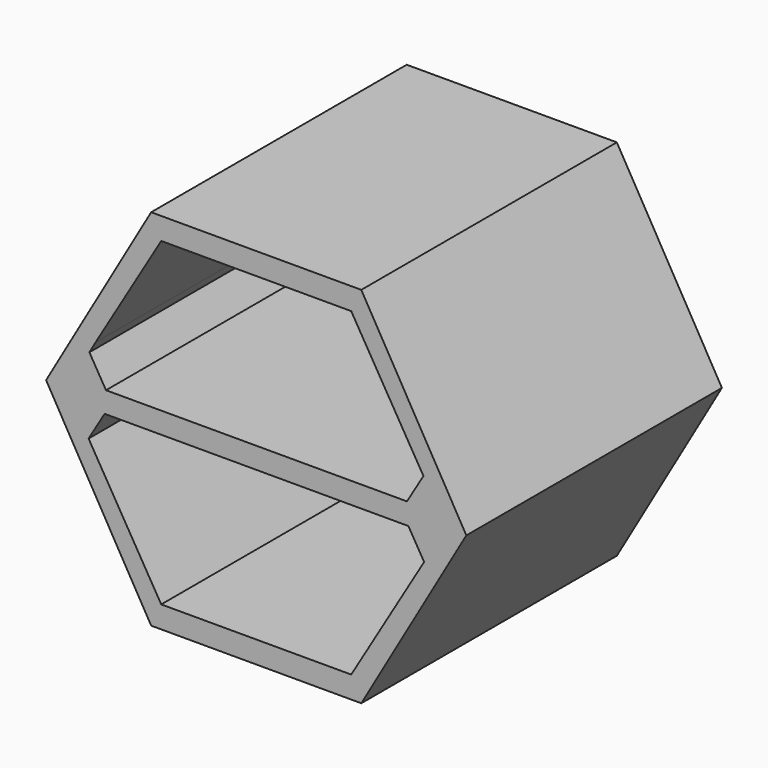
from build123d import *

# Parameters (mm, degrees)
F1_DEPTH = 292
F2_DEPTH = 9


with BuildPart() as f1:
    # F0 (on Front) → F1 (new body)
    with BuildSketch(Plane.XZ):
        Polygon((-105, 171.47303), (-303, 171.47303), (-402, 0), (-303, -171.47303), (-105, -171.47303), (-6, 0), align=None)
        Polygon((-293.5, -150.736515), (-361.781594, -35.736184), (-361.952093, -35.444912), (-346.844143, -10), (-60.639007, -10), (-45.792882, -35.003945), (-46.268614, -35.820746), (-114.5, -150.736515), align=None, mode=Mode.SUBTRACT)
        Polygon((-97.7032272297, 122.4472748636), (-51.652201, 44.88782), (-46.414232, 36.168972), (-61.952093, 10), (-345.531058, 10), (-361.186206, 36.366508), (-355.355891, 46.558398), (-293.5, 150.736515), (-114.5, 150.736515), align=None, mode=Mode.SUBTRACT)
    extrude(amount=F1_DEPTH)

    # F0 (on Front) → F2 (join)
    with BuildSketch(Plane.XZ):
        Polygon((-105, 171.47303), (-303, 171.47303), (-402, 0), (-303, -171.47303), (-105, -171.47303), (-6, 0), align=None)
        Polygon((-293.5, -150.736515), (-361.781594, -35.736184), (-361.952093, -35.444912), (-346.844143, -10), (-60.639007, -10), (-45.792882, -35.003945), (-46.268614, -35.820746), (-114.5, -150.736515), align=None, mode=Mode.SUBTRACT)
        Polygon((-97.7032272297, 122.4472748636), (-51.652201, 44.88782), (-46.414232, 36.168972), (-61.952093, 10), (-345.531058, 10), (-361.186206, 36.366508), (-355.355891, 46.558398), (-293.5, 150.736515), (-114.5, 150.736515), align=None, mode=Mode.SUBTRACT)
        Polygon((-361.952093, -35.444912), (-361.781594, -35.736184), (-293.5, -150.736515), (-114.5, -150.736515), (-46.268614, -35.820746), (-45.792882, -35.003945), (-60.639007, -10), (-346.844143, -10), align=None)
        Polygon((-46.414232, 36.168972), (-51.652201, 44.88782), (-97.7032272297, 122.4472748636), (-114.5, 150.736515), (-293.5, 150.736515), (-355.355891, 46.558398), (-361.186206, 36.366508), (-345.531058, 10), (-61.952093, 10), align=None)
    extrude(amount=-F2_DEPTH)


solid = f1.part
